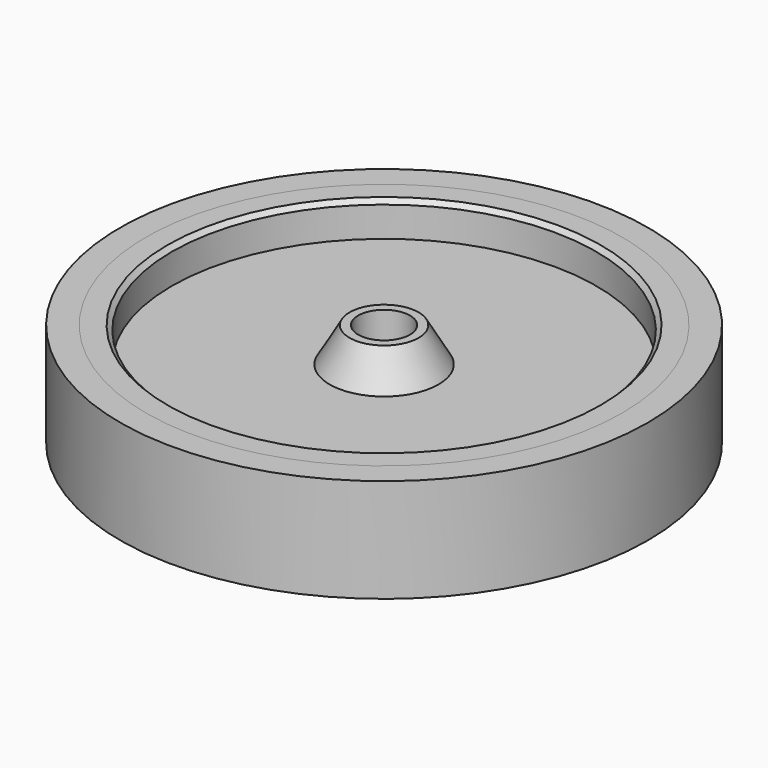
from build123d import *

# Parameters (mm, degrees)
F3_R     = 4.7625
F4_DEPTH = 19.051
F5_SIZE  = 0.8128


with BuildPart() as f1:
    # F0 (on Front) → F1 (revolve)
    with BuildSketch(Plane.XZ):
        Polygon((6.35, 9.525), (0, 9.525), (0, -9.525), (6.35, -9.525), (10.016174, -3.175), (39.0144, -3.175), (39.0144, -9.525), (43.7642, -9.525), (43.7642, 0), (43.7642, 9.525), (39.0144, 9.525), (39.0144, 3.175), (10.016174, 3.175), align=None)
    revolve(axis=Axis((0, 0, 0), (0, 0, -1)))

    # F3 (on face) → F4 (cut, through all)
    with BuildSketch(Plane.XY.offset(9.525)):
        Circle(F3_R)
    extrude(amount=-F4_DEPTH, mode=Mode.SUBTRACT)

    # F5
    f5_edges = [f1.edges().sort_by_distance(p)[0] for p in [
        (-39.0144, 0, 9.525),
        (-39.0144, 0, -9.525),
    ]]
    chamfer(f5_edges, length=F5_SIZE)


with BuildPart() as f2:
    # F0 (on Front) → F2 (revolve)
    with BuildSketch(Plane.XZ):
        Polygon((48.514, 9.525), (43.7642, 9.525), (43.7642, 0), (43.7642, -9.525), (48.514, -9.525), (48.514, 0), align=None)
    revolve(axis=Axis((0, 0, 0), (0, 0, -1)))


solid = Compound([f1.part, f2.part])
